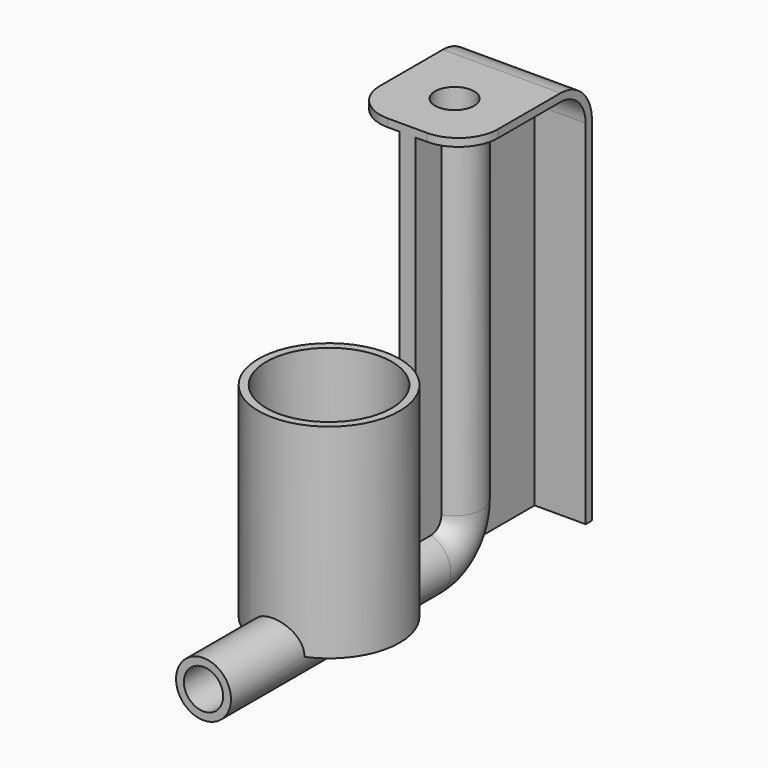
from build123d import *

# Parameters (mm, degrees)
F0_R       = 9
F1_DEPTH   = 26
F3_DEPTH   = 1
F4_R       = 3.5
F7_R       = 2.5
F9_R       = 8
F10_DEPTH  = 25
F13_DEPTH  = 1
F13_FACE_W = 6.5
F13_FACE_H = 1


with BuildPart() as f1:
    # F0 (on Top) → F1 (new body)
    with BuildSketch(Plane.XY):
        Circle(F0_R)
    extrude(amount=F1_DEPTH)



with BuildPart() as f3:
    # F2 (on Right) → F3 (new body, symmetric)
    with BuildSketch(Plane.YZ):
        with BuildLine():
            Line((12.5, 0), (32.5, 0))
            Line((32.5, 0), (32.5, 45))
            ThreePointArc((32.5, 45), (31.0355339059, 48.5355339059), (27.5, 50))
            Line((27.5, 50), (12.5, 50))
            Line((12.5, 50), (12.5, 0))
        make_face()
    extrude(amount=F3_DEPTH, both=True)


with BuildPart() as f1_1:
    add(f1.part)

    add(f3.part)  # F6 merges F3
    # F6: sweep along a path in F5
    with BuildLine(Plane.YZ) as f6_path:
        Line((-20, 0), (0, 0))
        Line((0, 0), (15, 0))
        ThreePointArc((15, 0), (18.5355339059, 1.4644660941), (20, 5))
        Line((20, 5), (20, 50))
    # F4 (on Front) → F6 (sweep)
    with BuildSketch(Plane.XZ):
        Circle(F4_R)
    sweep(path=f6_path.line)

    # F8: sweep along a path in F5
    with BuildLine(Plane.YZ) as f8_path:
        Line((-20, 0), (0, 0))
        Line((0, 0), (15, 0))
        ThreePointArc((15, 0), (18.5355339059, 1.4644660941), (20, 5))
        Line((20, 5), (20, 50))
    # F7 (on face) → F8 (sweep, cut)
    with BuildSketch(Plane.XZ.offset(20)):
        Circle(F7_R)
    sweep(path=f8_path.line, mode=Mode.SUBTRACT)

    # F9 (on face) → F10 (cut)
    with BuildSketch(Plane.XY.offset(26)):
        Circle(F9_R)
    extrude(amount=-F10_DEPTH, mode=Mode.SUBTRACT)

    # F12 (on face) → F13 (join)
    with BuildSketch(Plane.XY.offset(50)):
        with BuildLine():
            Line((7.5, 25), (1, 25))
            Line((1, 25), (1, 23.3541019662))
            ThreePointArc((1, 23.3541019662), (3.5, 20), (1, 16.6458980338))
            Line((1, 16.6458980338), (1, 12.5))
            Line((1, 12.5), (2.5, 12.5))
            ThreePointArc((2.5, 12.5), (6.0355339059, 13.9644660941), (7.5, 17.5))
            Line((7.5, 17.5), (7.5, 25))
        make_face()
        with BuildLine():
            Line((-1, 25), (-7.5, 25))
            Line((-7.5, 25), (-7.5, 17.5))
            ThreePointArc((-7.5, 17.5), (-6.0355339059, 13.9644660941), (-2.5, 12.5))
            Line((-2.5, 12.5), (-1, 12.5))
            Line((-1, 12.5), (-1, 16.6458980338))
            ThreePointArc((-1, 16.6458980338), (-3.5, 20), (-1, 23.3541019662))
            Line((-1, 23.3541019662), (-1, 25))
        make_face()
    extrude(amount=-F13_DEPTH)

    # F14: sweep along a path in F14_path
    with BuildLine(Plane(origin=(1, 27.5, 50), x_dir=(0, 0, 1), z_dir=(1, 0, 0))) as f14_path:
        Line((0, 2.5), (0, 0))
        ThreePointArc((0, 0), (-1.4644660941, -3.5355339059), (-5, -5))
        Line((-5, -5), (-50, -5))
    # F13_face (on face) → F14 (sweep)
    with BuildSketch(Plane(origin=(4.25, 25, 49.5), x_dir=(-1, 0, 0), z_dir=(0, 1, 0))):
        Rectangle(F13_FACE_W, F13_FACE_H)
        with Locations((8.5, 0)):
            Rectangle(F13_FACE_W, F13_FACE_H)
    sweep(path=f14_path.line)


solid = f1_1.part
